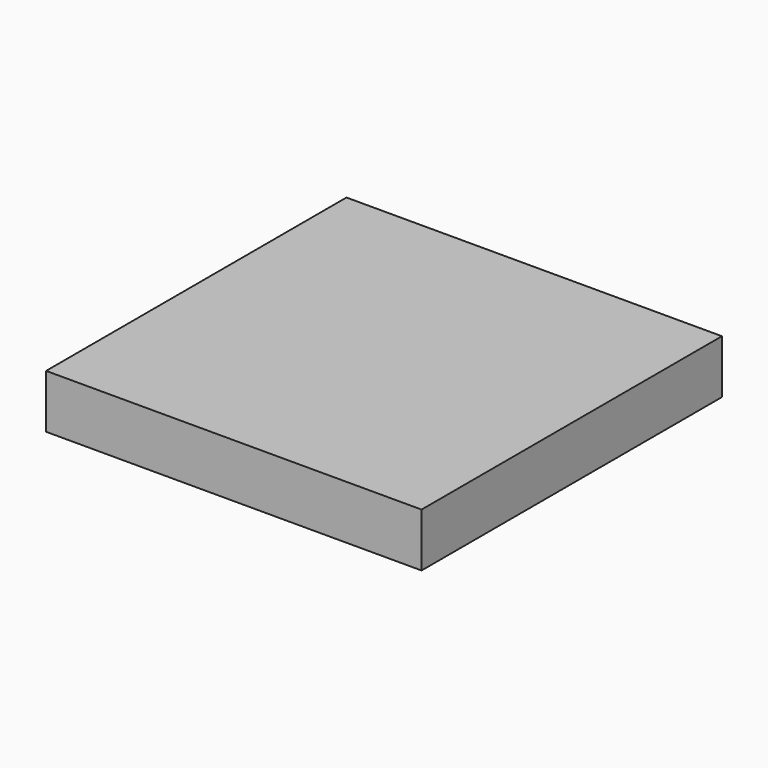
from build123d import *

# Parameters (mm, degrees)
SKETCH_W  = 140
SKETCH_H  = 140
PAD_DEPTH = 20


with BuildPart() as part:
    # Sketch → Pad (new body)
    with BuildSketch(Plane.XY):
        with Locations((-0.523737, -12.443131)):
            Rectangle(SKETCH_W, SKETCH_H)
    extrude(amount=PAD_DEPTH)


solid = part.part
